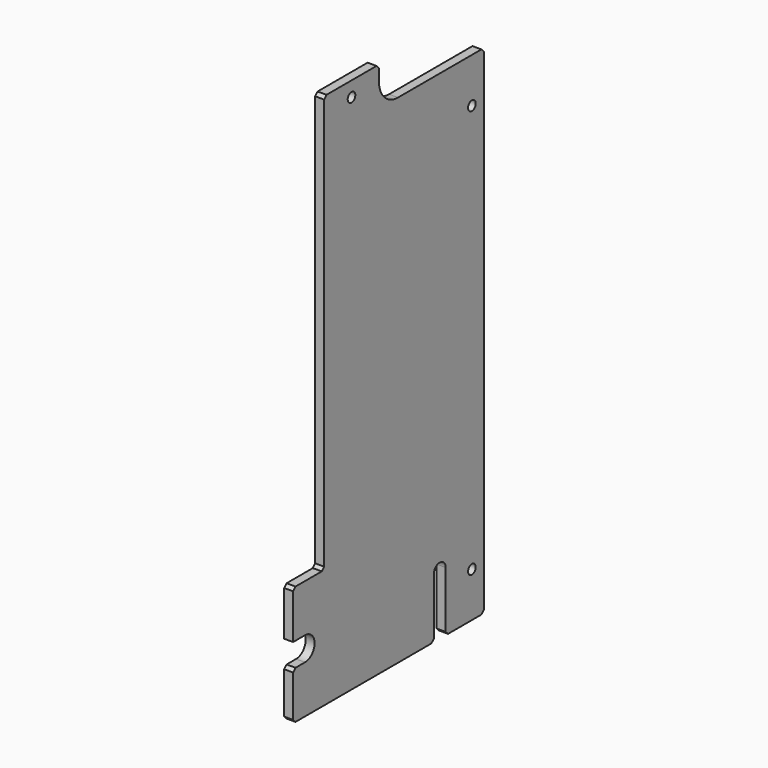
from build123d import *

# Parameters (mm, degrees)
SKETCH_R        = 1.6
PAD_DEPTH       = 3
POCKET014_DEPTH = 3.001
CHAMFER059_SIZE = 1
CHAMFER_SIZE    = 1


with BuildPart() as part:
    # Sketch → Pad (new body)
    with BuildSketch(Plane.YZ.offset(40)):
        with BuildLine():
            Line((8, 320), (31, 320))
            Line((31, 320), (31, 315))
            ThreePointArc((31, 315), (33.343146, 309.343146), (39, 307))
            Line((75, 307), (39, 307))
            Line((75, 140), (75, 307))
            Line((-5, 140), (75, 140))
            Line((-5, 156), (-5, 140))
            Line((-5, 156), (0, 156))
            ThreePointArc((0, 156), (4, 160), (0, 164))
            Line((0, 164), (-5, 164))
            Line((-5, 180), (-5, 164))
            Line((8, 180), (-5, 180))
            Line((8, 320), (8, 180))
        make_face()
        with Locations((19.5, 315)):
            Circle(SKETCH_R, mode=Mode.SUBTRACT)
        with Locations((70, 292)):
            Circle(SKETCH_R, mode=Mode.SUBTRACT)
        with Locations((70, 155)):
            Circle(SKETCH_R, mode=Mode.SUBTRACT)
    extrude(amount=PAD_DEPTH)

    # Sketch158 (on Face18 of Pad) → Pocket014 (cut, through all)
    with BuildSketch(Plane.YZ.offset(43)):
        with BuildLine():
            ThreePointArc((54, 140), (56.5, 137.5), (59, 140))
            Line((59, 140), (59, 160))
            ThreePointArc((59, 160), (56.5, 162.5), (54, 160))
            Line((54, 160), (54, 140))
        make_face()
    extrude(amount=-POCKET014_DEPTH, mode=Mode.SUBTRACT)

    # Chamfer059
    chamfer059_edges = [part.edges().sort_by_distance(p)[0] for p in [
        (41.5, 54, 140),
        (41.5, 59, 140),
    ]]
    chamfer(chamfer059_edges, length=CHAMFER059_SIZE)

    # Chamfer
    chamfer_edges = [part.edges().sort_by_distance(p)[0] for p in [
        (41.5, -5, 180),
        (41.5, 8, 180),
        (41.5, -5, 140),
        (41.5, -5, 156),
        (41.5, 75, 140),
        (41.5, 75, 307),
        (41.5, 31, 320),
        (41.5, 8, 320),
    ]]
    chamfer(chamfer_edges, length=CHAMFER_SIZE)


solid = part.part
